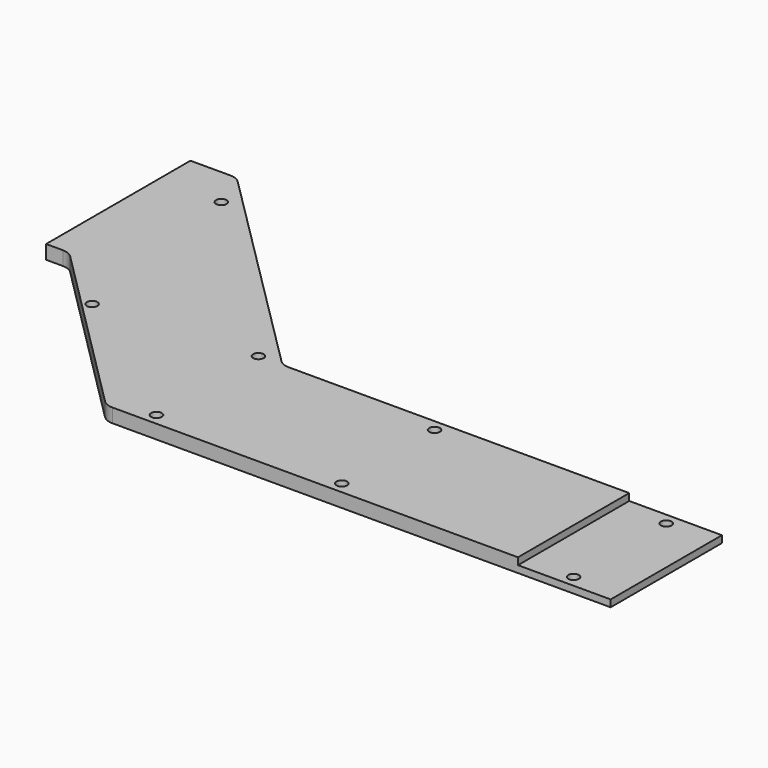
from build123d import *

# Parameters (mm, degrees)
PAD011_DEPTH            = 3
FILLET036_R             = 3.35
SKETCH183_R             = 1.15
POCKET052_DEPTH         = 3
POCKET054_DEPTH         = 5
SKETCH187_W             = 31
SKETCH187_H             = 20
POCKET055_DEPTH         = 1.5
BODY023_ROLL_ANGLE      = 180
BODY023_PLACEMENT_ANGLE = -90


with BuildPart() as part:
    # Sketch182 → Pad011 (new body)
    with BuildSketch(Plane(origin=(0, 0, 0), x_dir=(1, 0, 0), z_dir=(0, 0, -1))):
        Polygon((101.467362, -402.500006), (130.400002, -402.500006), (135.400002, -402.500006), (135.400002, -397.500006), (174.999975, -357.90402), (174.999975, -245), (289.999995, -245), (294.999995, -245), (294.999995, -215), (289.999995, -215), (224.999995, -215), (224.999995, -199.999997), (219.999995, -199.999997), (199.999995, -199.999997), (194.999995, -199.999997), (194.999995, -215.000003), (168.459985, -215.000003), (161.999993, -198.359996), (161.999993, -115.000006), (161.999993, -110.000006), (156.999993, -110.000006), (134.576923, -122.534363), (131.999997, -126.895911), (131.999997, -200.027011), (144.989344, -239.967928), (144.989344, -343.839368), (96.467362, -392.500006), (96.467362, -397.500006), (96.467362, -402.500006), align=None)
    extrude(amount=PAD011_DEPTH)

    # Fillet036
    fillet036_edges = [part.edges().sort_by_distance(p)[0] for p in [
        (194.999995, 215.000003, -1.5),
        (168.459985, 215.000003, -1.5),
        (161.999993, 198.359996, -1.5),
        (161.999993, 110.000006, -1.5),
        (156.999993, 110.000006, -1.5),
        (134.576923, 122.534363, -1.5),
        (131.999997, 126.895911, -1.5),
        (131.999997, 200.027011, -1.5),
        (144.989344, 239.967928, -1.5),
        (144.989344, 343.839368, -1.5),
        (96.467362, 392.500006, -1.5),
        (135.400002, 397.500006, -1.5),
        (174.999975, 357.90402, -1.5),
        (174.999975, 245, -1.5),
        (294.999995, 245, -1.5),
        (294.999995, 215, -1.5),
        (224.999995, 215, -1.5),
    ]]
    fillet(fillet036_edges, radius=FILLET036_R)

    # Sketch183 (on Face5 of Fillet036) → Pocket052 (cut)
    with BuildSketch(Plane(origin=(0, 0, -3), x_dir=(1, 0, 0), z_dir=(0, 0, -1))):
        with Locations((105, -389)):
            Circle(SKETCH183_R)
        with Locations((145, -349)):
            Circle(SKETCH183_R)
        with Locations((147.500002, -309.000005)):
            Circle(SKETCH183_R)
        with Locations((147.500002, -259.000004)):
            Circle(SKETCH183_R)
        with Locations((172.500003, -259.000004)):
            Circle(SKETCH183_R)
        with Locations((172.500003, -309.000005)):
            Circle(SKETCH183_R)
        with Locations((172.500003, -349.000005)):
            Circle(SKETCH183_R)
        with Locations((147.665007, -382.765018)):
            Circle(SKETCH183_R)
        with Locations((178.000003, -242.500004)):
            Circle(SKETCH183_R)
        with Locations((218.000003, -242.500004)):
            Circle(SKETCH183_R)
        with Locations((258.000004, -242.500004)):
            Circle(SKETCH183_R)
        with Locations((258.000004, -217.500003)):
            Circle(SKETCH183_R)
        with Locations((292, -242.500004)):
            Circle(SKETCH183_R)
        with Locations((292.000004, -217.500003)):
            Circle(SKETCH183_R)
        with Locations((292.500004, -230.000003)):
            Circle(SKETCH183_R)
        with Locations((223.000003, -217.000003)):
            Circle(SKETCH183_R)
        with Locations((197, -217)):
            Circle(SKETCH183_R)
        with Locations((166.109996, -217.109995)):
            Circle(SKETCH183_R)
        with Locations((147.500002, -239)):
            Circle(SKETCH183_R)
        with Locations((141, -220)):
            Circle(SKETCH183_R)
        with Locations((134.427551, -201)):
            Circle(SKETCH183_R)
        with Locations((160.149996, -200.999996)):
            Circle(SKETCH183_R)
        with Locations((134.427551, -161)):
            Circle(SKETCH183_R)
        with Locations((159.500002, -161.000002)):
            Circle(SKETCH183_R)
        with Locations((137, -124)):
            Circle(SKETCH183_R)
        with Locations((146.849997, -118.149997)):
            Circle(SKETCH183_R)
        with Locations((159, -113)):
            Circle(SKETCH183_R)
    extrude(amount=-POCKET052_DEPTH, mode=Mode.SUBTRACT)

    # Sketch186 (on Face5 of Pocket052) → Pocket054 (cut)
    with BuildSketch(Plane(origin=(0, 0, -3), x_dir=(1, 0, 0), z_dir=(0, 0, -1))):
        Polygon((175, -249), (130, -249), (130, -100), (170, -100), (170, -190), (300, -190), (300, -249), align=None)
    extrude(amount=-POCKET054_DEPTH, mode=Mode.SUBTRACT)

    # Sketch187 (on Face25 of Pocket054) → Pocket055 (cut)
    with BuildSketch(Plane(origin=(0, 0, -3), x_dir=(1, 0, 0), z_dir=(0, 0, -1))):
        with Locations((159.5, -259)):
            Rectangle(SKETCH187_W, SKETCH187_H)
    extrude(amount=-POCKET055_DEPTH, mode=Mode.SUBTRACT)


with BuildPart() as part_1:
    # Body023 roll: moved
    add(part.part.rotate(Axis((0, 0, 0), (1, 0, 0)), BODY023_ROLL_ANGLE))


with BuildPart() as part_2:
    # Body023 placement: moved
    add(part_1.part.moved(Location((0, 0, -5))).rotate(Axis((0, 0, -5), (0, 0, 1)), BODY023_PLACEMENT_ANGLE))


solid = part_2.part
